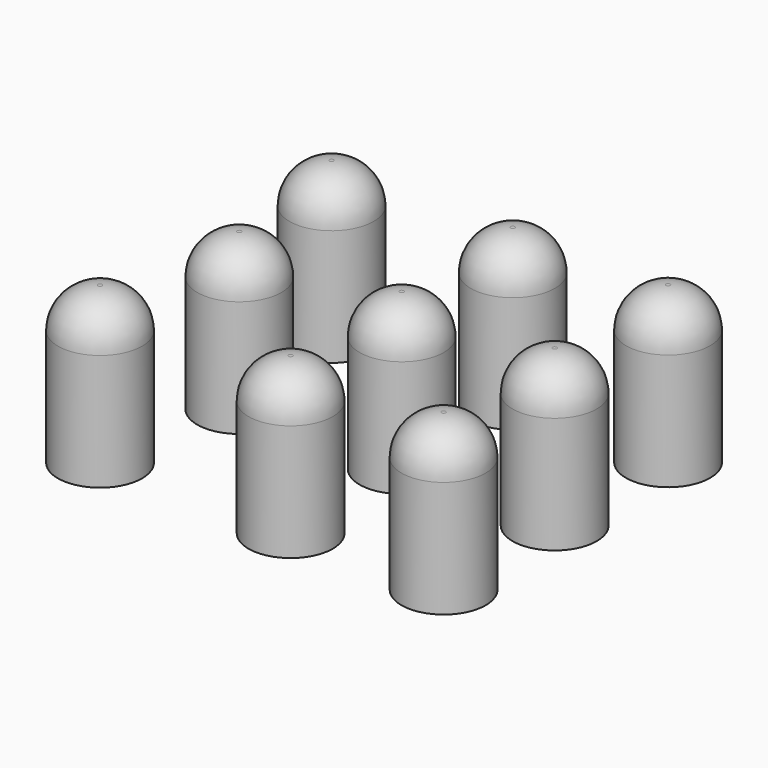
from build123d import *

# Parameters (mm, degrees)
F0_R     = 4.5466
F1_DEPTH = 16.8783
F2_R     = 4.318


with BuildPart() as f1:
    # F0 (on Top) → F1 (new body)
    with BuildSketch(Plane.XY):
        Circle(F0_R)
    extrude(amount=F1_DEPTH)

    # F2
    f2_edges = [f1.edges().sort_by_distance(p)[0] for p in [
        (-4.5466, 0, 16.8783),
    ]]
    fillet(f2_edges, radius=F2_R)


with BuildPart() as f3_1:
    # F3: copy of F1
    add(f1.part.moved(Location((0, 14.986, 0))))


with BuildPart() as f4_1:
    # F4: copy of F1
    add(f1.part.moved(Location((0, -14.986, 0))))


with BuildPart() as f5_1:
    # F5: copy of F3_1
    add(f3_1.part.moved(Location((16.764, 0, 0))))


with BuildPart() as f6_1:
    # F6: copy of F3_1
    add(f3_1.part.moved(Location((-19.558, 0, 0))))


with BuildPart() as f7_1:
    # F7: copy of F1
    add(f1.part.moved(Location((16.51, 0, 0))))


with BuildPart() as f8_1:
    # F8: copy of F1
    add(f1.part.moved(Location((-17.526, 0, 0))))


with BuildPart() as f9_1:
    # F9: copy of F4_1
    add(f4_1.part.moved(Location((16.51, 0, 0))))


with BuildPart() as f10_1:
    # F10: copy of F4_1
    add(f4_1.part.moved(Location((-20.574, 0, 0))))


solid = Compound([f1.part, f3_1.part, f4_1.part, f5_1.part, f6_1.part, f7_1.part, f8_1.part, f9_1.part, f10_1.part])
